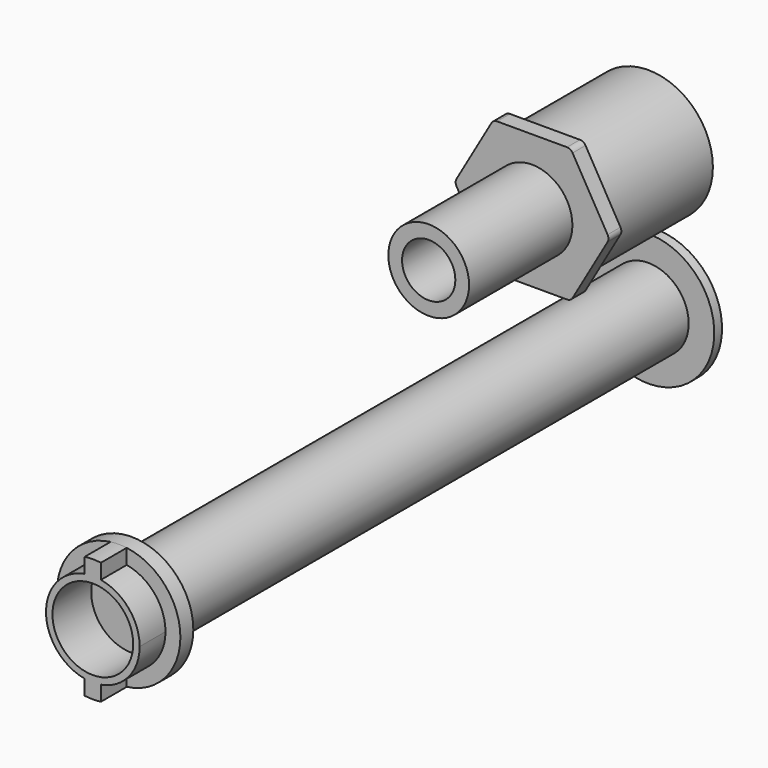
from build123d import *

# Parameters (mm, degrees)
F0_R      = 12.5
F0_R_2    = 2.5
F1_DEPTH  = 200
F2_R      = 19.115364
F2_R_2    = 12.5
F3_DEPTH  = 5
F4_R      = 12.5
F5_DEPTH  = 10
F6_R      = 20
F6_R_2    = 17.5
F7_DEPTH  = 40
F8_R      = 8.250091
F9_DEPTH  = 5
F10_R     = 12.5
F10_R_2   = 8.250091
F11_DEPTH = 40
F12_R     = 20.435005
F12_R_2   = 12.5
F13_DEPTH = 3


with BuildPart() as f1:
    # F0 (on Front) → F1 (new body)
    with BuildSketch(Plane.XZ):
        Circle(F0_R)
        Circle(F0_R_2, mode=Mode.SUBTRACT)
    extrude(amount=F1_DEPTH)


with BuildPart() as f3:
    # F2 (on face) → F3 (new body)
    with BuildSketch(Plane.XZ.offset(200)):
        Circle(F2_R)
        Circle(F2_R_2, mode=Mode.SUBTRACT)
    extrude(amount=F3_DEPTH)

    # F4 (on face) → F5 (join)
    with BuildSketch(Plane.XZ.offset(205)):
        with BuildLine():
            Line((2.5, 14.282857), (2.5, 18.951178))
            ThreePointArc((2.5, 18.951178), (0, 19.115364), (-2.5, 18.951178))
            Line((-2.5, 18.951178), (-2.5, 14.282857))
            ThreePointArc((-2.5, 14.282857), (0, 14.5), (2.5, 14.282857))
        make_face()
        with BuildLine():
            ThreePointArc((-2.5, -18.951178), (0, -19.115364), (2.5, -18.951178))
            Line((2.5, -18.951178), (2.5, -14.282857))
            ThreePointArc((2.5, -14.282857), (0, -14.5), (-2.5, -14.282857))
            Line((-2.5, -14.282857), (-2.5, -18.951178))
        make_face()
        with BuildLine():
            ThreePointArc((14.5, 0), (11.101802, 9.327379), (2.5, 14.282857))
            ThreePointArc((2.5, 14.282857), (0, 14.5), (-2.5, 14.282857))
            ThreePointArc((-2.5, 14.282857), (-14.5, 0), (-2.5, -14.282857))
            ThreePointArc((-2.5, -14.282857), (0, -14.5), (2.5, -14.282857))
            ThreePointArc((2.5, -14.282857), (11.101802, -9.327379), (14.5, 0))
        make_face()
        Circle(F4_R, mode=Mode.SUBTRACT)
    extrude(amount=F5_DEPTH)


with BuildPart() as f7:
    # F6 (on Front) → F7 (new body)
    with BuildSketch(Plane.XZ):
        with Locations((0, 45.065034)):
            Circle(F6_R)
        with Locations((0, 45.065034)):
            Circle(F6_R_2, mode=Mode.SUBTRACT)
    extrude(amount=F7_DEPTH)

    # F8 (on face) → F9 (join)
    with BuildSketch(Plane.XZ.offset(40)):
        with BuildLine():
            Line((10.829489, 65.822259), (-10.829489, 65.822259))
            ThreePointArc((-10.829489, 65.822259), (-11.829489, 65.554309), (-12.561539, 64.822259))
            Line((-12.561539, 64.822259), (-23.391028, 46.065034))
            ThreePointArc((-23.391028, 46.065034), (-23.658977, 45.065034), (-23.391028, 44.065034))
            Line((-23.391028, 44.065034), (-12.561539, 25.30781))
            ThreePointArc((-12.561539, 25.30781), (-11.829489, 24.575759), (-10.829489, 24.30781))
            Line((-10.829489, 24.30781), (10.829489, 24.30781))
            ThreePointArc((10.829489, 24.30781), (11.829489, 24.575759), (12.561539, 25.30781))
            Line((12.561539, 25.30781), (23.391028, 44.065034))
            ThreePointArc((23.391028, 44.065034), (23.658977, 45.065034), (23.391028, 46.065034))
            Line((23.391028, 46.065034), (12.561539, 64.822259))
            ThreePointArc((12.561539, 64.822259), (11.829489, 65.554309), (10.829489, 65.822259))
        make_face()
        with Locations((0, 45.065034)):
            Circle(F8_R, mode=Mode.SUBTRACT)
    extrude(amount=F9_DEPTH)

    # F10 (on face) → F11 (join)
    with BuildSketch(Plane.XZ.offset(45)):
        with Locations((0, 45.065034)):
            Circle(F10_R)
        with Locations((0, 45.065034)):
            Circle(F10_R_2, mode=Mode.SUBTRACT)
    extrude(amount=F11_DEPTH)


with BuildPart() as f13:
    # F12 (on face) → F13 (new body)
    with BuildSketch(Plane(origin=(0, 0, 0), x_dir=(-1, 0, 0), z_dir=(0, 1, 0))):
        Circle(F12_R)
        Circle(F12_R_2, mode=Mode.SUBTRACT)
    extrude(amount=F13_DEPTH)


solid = Compound([f1.part, f3.part, f7.part, f13.part])
